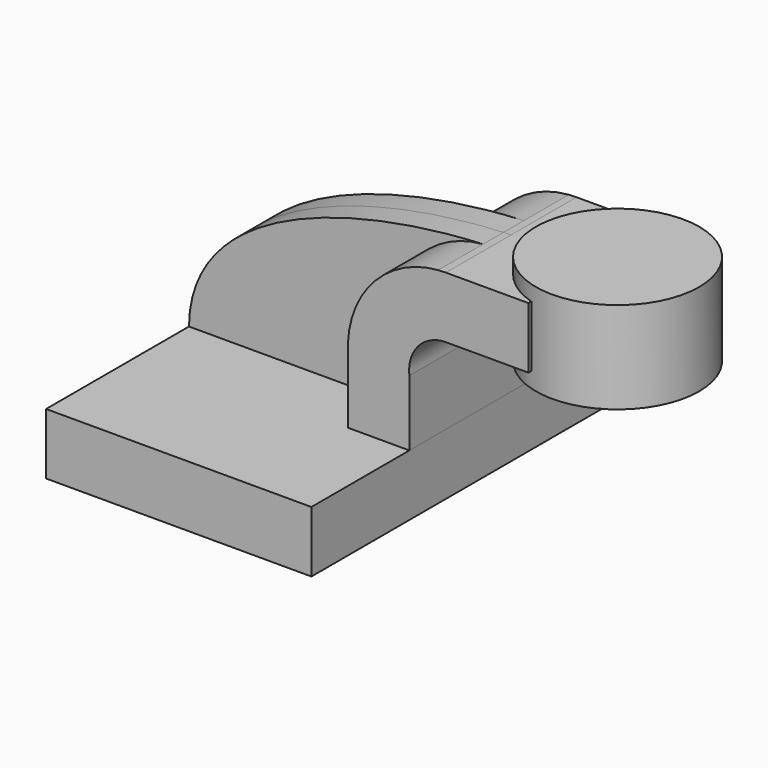
from build123d import *

# Parameters (mm, degrees)
F1_DEPTH = 63.5
F0_W     = 17.988366
F0_H     = 19.05
F2_DEPTH = 25.4
F3_DEPTH = 7.9375
F0_W_2   = 25.4
F0_H_2   = 28.575


with BuildPart() as f1:
    # F0 (on Front) → F1 (new body, symmetric)
    with BuildSketch(Plane.XZ):
        Polygon((-41.275, 9.525), (-41.275, -9.525), (41.275, -9.525), (41.275, 9.525), (22.225, 9.525), align=None)
    extrude(amount=F1_DEPTH, both=True)


with BuildPart() as f2:
    # F0 (on Front) → F2 (new body, symmetric)
    with BuildSketch(Plane.XZ):
        with BuildLine():
            Line((22.225, 9.525), (41.275, 9.525))
            Line((41.275, 9.525), (41.275, 30.037714))
            ThreePointArc((41.275, 30.037714), (44.05691, 39.013958), (52.624452, 42.8752))
            Line((52.624452, 42.8752), (60.325, 42.8752))
            Line((60.325, 42.8752), (60.325, 61.9252))
            Line((60.325, 61.9252), (52.624452, 61.9252))
            add(Edge.make_bspline(
                [(50.231625, 61.831148), (51.035338, 61.867656), (51.833143, 61.898975), (52.624452, 61.9252)],
                knots=[105.343724, 105.343724, 105.343724, 105.343724, 107.53087, 107.53087, 107.53087, 107.53087], degree=3))
            ThreePointArc((50.231625, 61.831148), (29.475375, 51.276284), (22.225, 29.14804))
            Line((22.225, 29.14804), (22.225, 9.525))
        make_face()
        with Locations((69.319183, 52.4002)):
            Rectangle(F0_W, F0_H)
    extrude(amount=F2_DEPTH, both=True)

    # F0 (on Front) → F4 (revolve)
    with BuildSketch(Plane.XZ):
        with Locations((98.425, 52.3875)):
            Rectangle(F0_W_2, F0_H_2)
    revolve(axis=Axis((85.725, 0, 52.3875), (0, 0, -1)))


with BuildPart() as f3:
    # F0 (on Front) → F3 (new body, symmetric)
    with BuildSketch(Plane.XZ):
        with BuildLine():
            add(Edge.make_bspline(
                [(-41.275, 9.525), (-40.895153, 46.27369), (11.520846, 60.072729), (50.231625, 61.831148)],
                knots=[0, 0, 0, 0, 105.343724, 105.343724, 105.343724, 105.343724], degree=3))
            Line((-41.275, 9.525), (22.225, 9.525))
            Line((22.225, 9.525), (22.225, 29.14804))
            ThreePointArc((22.225, 29.14804), (29.475375, 51.276284), (50.231625, 61.831148))
        make_face()
    extrude(amount=F3_DEPTH, both=True)


solid = Compound([f1.part, f2.part, f3.part])
